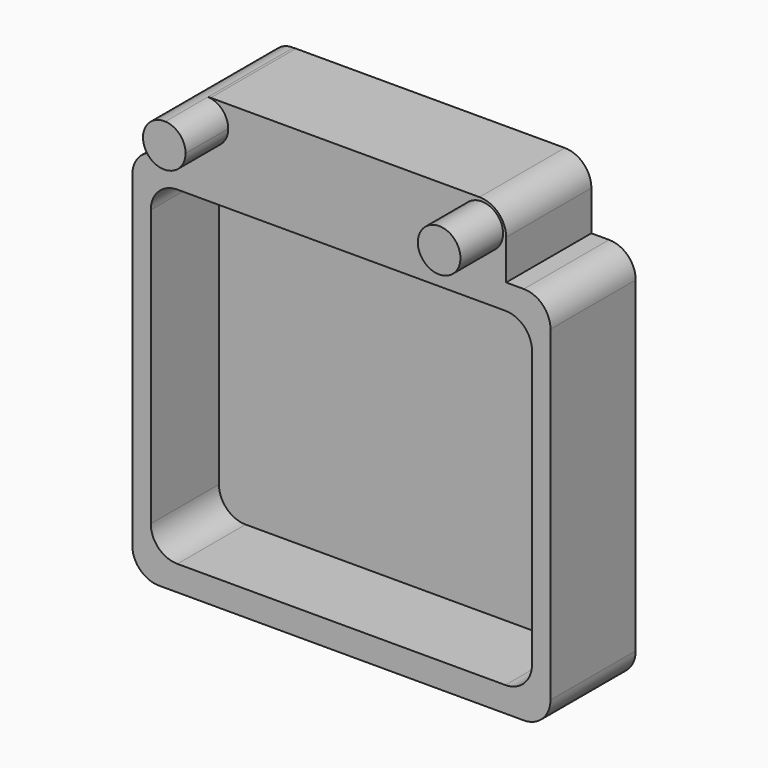
from build123d import *

# Parameters (mm, degrees)
F1_DEPTH = 5.08
F0_R     = 5.08
F2_DEPTH = 25.4
F3_DEPTH = 38.1


with BuildPart() as f1:
    # F0 (on Front) → F1 (new body)
    with BuildSketch(Plane.XZ):
        with BuildLine():
            Line((39.0883027781, 39.2741925017), (-37.5130171202, 39.2741925017))
            Line((-37.5130171202, 39.2741925017), (-39.0883027781, 39.2741925017))
            ThreePointArc((-39.0883027781, 39.2741925017), (-43.5784308386, 37.4143205622), (-45.4383027781, 32.9241925017))
            Line((-45.4383027781, 32.9241925017), (-45.4383027781, -32.9241925017))
            ThreePointArc((-45.4383027781, -32.9241925017), (-43.5784308386, -37.4143205622), (-39.0883027781, -39.2741925017))
            Line((-39.0883027781, -39.2741925017), (39.0883027781, -39.2741925017))
            ThreePointArc((39.0883027781, -39.2741925017), (43.5784308386, -37.4143205622), (45.4383027781, -32.9241925017))
            Line((45.4383027781, -32.9241925017), (45.4383027781, 32.9241925017))
            ThreePointArc((45.4383027781, 32.9241925017), (43.5784308386, 37.4143205622), (39.0883027781, 39.2741925017))
        make_face()
    extrude(amount=F1_DEPTH)


with BuildPart() as f2:
    # F0 (on Front) → F2 (new body)
    with BuildSketch(Plane.XZ):
        with BuildLine():
            Line((-37.5130171202, 45.2621831046), (-43.491237673, 45.2621831046))
            ThreePointArc((-43.491237673, 45.2621831046), (-47.9813657336, 43.4023111652), (-49.841237673, 38.9121831046))
            Line((-49.841237673, 38.9121831046), (-49.841237673, -38.9121831046))
            ThreePointArc((-49.841237673, -38.9121831046), (-47.9813657336, -43.4023111652), (-43.491237673, -45.2621831046))
            Line((-43.491237673, -45.2621831046), (43.491237673, -45.2621831046))
            ThreePointArc((43.491237673, -45.2621831046), (47.9813657336, -43.4023111652), (49.841237673, -38.9121831046))
            Line((49.841237673, -38.9121831046), (49.841237673, 38.9121831046))
            ThreePointArc((49.841237673, 38.9121831046), (47.9813657336, 43.4023111652), (43.491237673, 45.2621831046))
            Line((43.491237673, 45.2621831046), (39.2741889428, 45.2621831046))
            Line((39.2741889428, 45.2621831046), (39.2741889428, 39.2741925017))
            Line((39.2741889428, 39.2741925017), (39.0883027781, 39.2741925017))
            ThreePointArc((39.0883027781, 39.2741925017), (43.5784308386, 37.4143205622), (45.4383027781, 32.9241925017))
            Line((45.4383027781, 32.9241925017), (45.4383027781, -32.9241925017))
            ThreePointArc((45.4383027781, -32.9241925017), (43.5784308386, -37.4143205622), (39.0883027781, -39.2741925017))
            Line((39.0883027781, -39.2741925017), (-39.0883027781, -39.2741925017))
            ThreePointArc((-39.0883027781, -39.2741925017), (-43.5784308386, -37.4143205622), (-45.4383027781, -32.9241925017))
            Line((-45.4383027781, -32.9241925017), (-45.4383027781, 32.9241925017))
            ThreePointArc((-45.4383027781, 32.9241925017), (-43.5784308386, 37.4143205622), (-39.0883027781, 39.2741925017))
            Line((-39.0883027781, 39.2741925017), (-37.5130171202, 39.2741925017))
            Line((-37.5130171202, 39.2741925017), (-37.5130171202, 45.2621831046))
        make_face()
        Polygon((39.2741889428, 45.2621831046), (-37.5130171202, 45.2621831046), (-37.5130171202, 39.2741925017), (39.0883027781, 39.2741925017), (39.2741889428, 39.2741925017), align=None)
        with BuildLine():
            Line((-37.5130171202, 54.7627508617), (-37.5130171202, 45.2621831046))
            Line((-37.5130171202, 45.2621831046), (39.2741889428, 45.2621831046))
            Line((39.2741889428, 45.2621831046), (39.2741889428, 54.7627508617))
            ThreePointArc((39.2741889428, 54.7627508617), (37.4143170034, 59.2528789222), (32.9241889428, 61.1127508617))
            Line((32.9241889428, 61.1127508617), (-31.1630171202, 61.1127508617))
            ThreePointArc((-31.1630171202, 61.1127508617), (-31.4875663404, 61.1044515645), (-31.8112672046, 61.0795753668))
            ThreePointArc((-31.8112672046, 61.0795753668), (-28.3766707055, 59.5108074846), (-26.973374861, 56.0053479495))
            ThreePointArc((-26.973374861, 56.0053479495), (-32.761377774, 50.9749273035), (-36.9360252056, 57.4075339616))
            ThreePointArc((-36.9360252056, 57.4075339616), (-37.3670924478, 56.1162460884), (-37.5130171202, 54.7627508617))
        make_face()
        with Locations((33.4623180133, 55.3008763733)):
            Circle(F0_R, mode=Mode.SUBTRACT)
    extrude(amount=F2_DEPTH)


with BuildPart() as f3:
    # F0 (on Front) → F3 (new body)
    with BuildSketch(Plane.XZ):
        with BuildLine():
            ThreePointArc((-31.8112672046, 61.0795753668), (-35.0121974529, 60.1347267005), (-36.9360252056, 57.4075339616))
            ThreePointArc((-36.9360252056, 57.4075339616), (-34.8615453601, 59.9244743005), (-31.8112672046, 61.0795753668))
        make_face()
        with BuildLine():
            ThreePointArc((-31.8112672046, 61.0795753668), (-34.8615453601, 59.9244743005), (-36.9360252056, 57.4075339616))
            ThreePointArc((-36.9360252056, 57.4075339616), (-32.761377774, 50.9749273035), (-26.973374861, 56.0053479495))
            ThreePointArc((-26.973374861, 56.0053479495), (-28.3766707055, 59.5108074846), (-31.8112672046, 61.0795753668))
        make_face()
    extrude(amount=F3_DEPTH)


with BuildPart() as f3b:
    # F0 (on Front) → F3, piece 2 (new body)
    with BuildSketch(Plane.XZ):
        with Locations((33.4623180133, 55.3008763733)):
            Circle(F0_R)
    extrude(amount=F3_DEPTH)


solid = Compound([f1.part, f2.part, f3.part, f3b.part])
